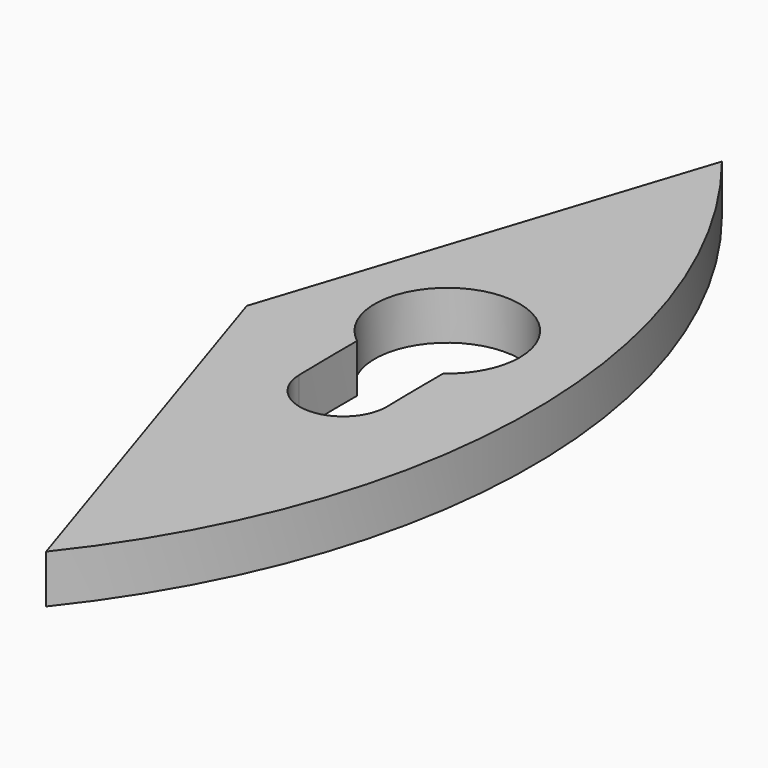
from build123d import *

# Parameters (mm, degrees)
F2_DEPTH = 2


with BuildPart() as f2:
    # F1 (on Top) → F2 (new body)
    with BuildSketch(Plane.XY):
        with BuildLine():
            ThreePointArc((89.806044, -17.474589), (95.92823, 0), (89.806044, 17.474589))
            Line((89.806044, 17.474589), (84.128205, 0))
            Line((84.128205, 0), (89.806044, -17.474589))
        make_face()
        with BuildLine():
            ThreePointArc((88.44225, 0.312652), (88.947564, 5.381486), (93.2723, 2.689818))
            ThreePointArc((93.2723, 2.689818), (92.947141, 1.331428), (92.042151, 0.267499))
            ThreePointArc((92.042151, 0.267499), (92.047906, -1.190874), (92.071838, -2.649063))
            ThreePointArc((92.071838, -2.649063), (90.313055, -4.489357), (88.472761, -2.730573))
            ThreePointArc((88.472761, -2.730573), (88.447906, -1.209057), (88.44225, 0.312652))
        make_face(mode=Mode.SUBTRACT)
    extrude(amount=F2_DEPTH)


solid = f2.part
